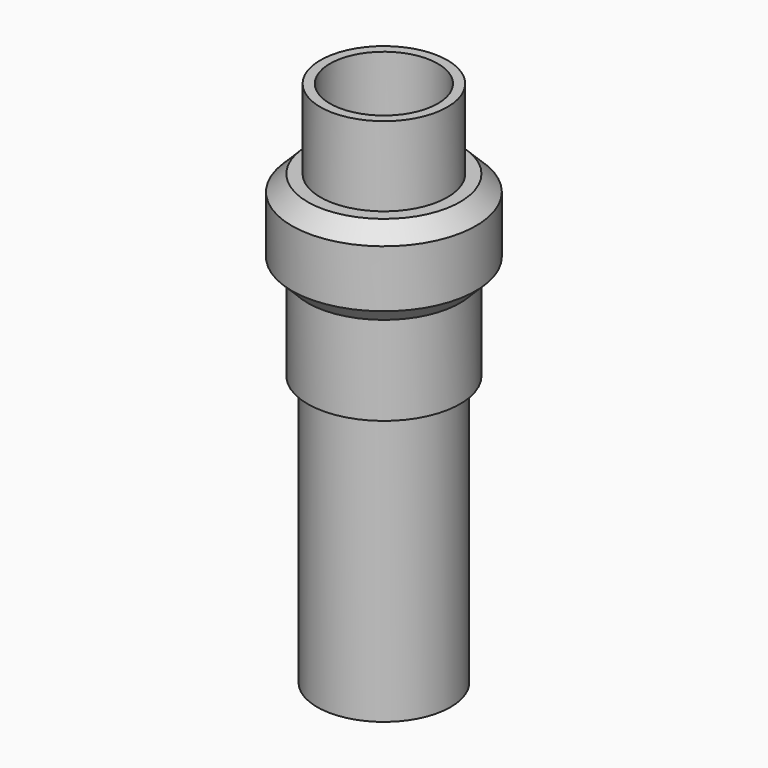
from build123d import *

# Parameters (mm, degrees)
F0_R     = 21
F1_DEPTH = 100
F4_R     = 20
F4_R_2   = 17
F5_DEPTH = 25


with BuildPart() as f1:
    # F0 (on Top) → F1 (new body)
    with BuildSketch(Plane.XY):
        Circle(F0_R)
    extrude(amount=F1_DEPTH)

    # F2 (on Front) → F3 (revolve)
    with BuildSketch(Plane.XZ):
        Polygon((-24, 85), (0, 85), (0, 141), (-24, 141), (-29, 136), (-29, 118), (-24, 113), align=None)
    revolve(axis=Axis((0, 0, 74.559175), (0, 0, 1)))

    # F4 (on face) → F5 (join)
    with BuildSketch(Plane.XY.offset(141)):
        Circle(F4_R)
        Circle(F4_R_2, mode=Mode.SUBTRACT)
    extrude(amount=F5_DEPTH)


solid = f1.part
